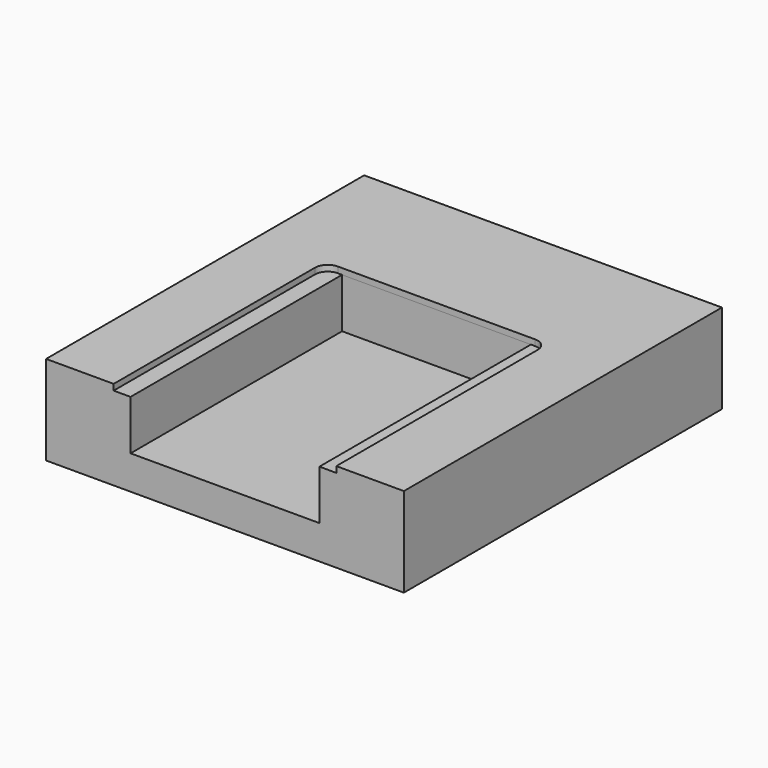
from build123d import *

# Parameters (mm, degrees)
SKETCH151_W     = 180
SKETCH151_H     = 200
PAD010_DEPTH    = 45
SKETCH152_W     = 112
SKETCH152_H     = 133
POCKET030_DEPTH = 3
SKETCH153_W     = 95
SKETCH153_H     = 134
POCKET031_DEPTH = 25
FILLET009_R     = 6.35


with BuildPart() as part:
    # Sketch151 → Pad010 (new body)
    with BuildSketch(Plane.XY):
        with Locations((690, 200)):
            Rectangle(SKETCH151_W, SKETCH151_H)
    extrude(amount=PAD010_DEPTH)

    # Sketch152 (on Face6 of Pad010) → Pocket030 (cut)
    with BuildSketch(Plane.XY.offset(45)):
        with Locations((690, 166.5)):
            Rectangle(SKETCH152_W, SKETCH152_H)
    extrude(amount=-POCKET030_DEPTH, mode=Mode.SUBTRACT)

    # Sketch153 (on Face6 of Pocket030) → Pocket031 (cut)
    with BuildSketch(Plane.XY.offset(42)):
        with Locations((690.00001, 166.000003)):
            Rectangle(SKETCH153_W, SKETCH153_H)
    extrude(amount=-POCKET031_DEPTH, mode=Mode.SUBTRACT)

    # Fillet009
    fillet009_edges = [part.edges().sort_by_distance(p)[0] for p in [
        (634, 233, 43.5),
        (746, 233, 43.5),
    ]]
    fillet(fillet009_edges, radius=FILLET009_R)


solid = part.part
